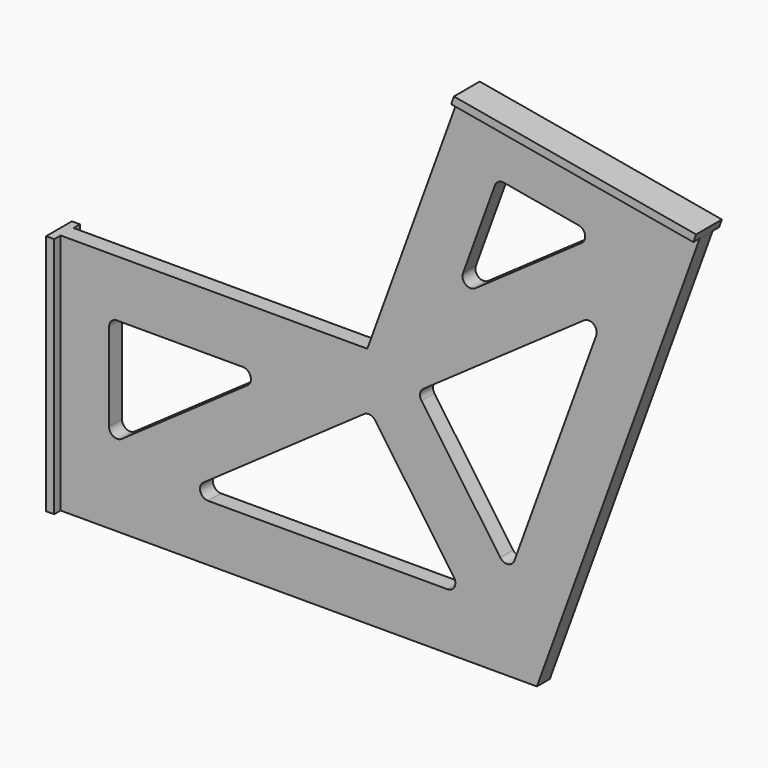
from build123d import *

# Parameters (mm, degrees)
F0_W     = 1
F0_H     = 30
F1_DEPTH = 1
F2_DEPTH = 2


with BuildPart() as f1:
    # F0 (on Front) → F1 (new body, symmetric)
    with BuildSketch(Plane.XZ):
        Polygon((-9, -65.009628), (50, -65.009628), (70.173912, -9.58226), (40.173912, -4.29245), (28.993774, -35.009628), (-9, -35.009628), align=None)
        with BuildLine():
            ThreePointArc((39.724006, -56.436051), (39.791865, -57.471377), (38.904854, -58.009628))
            Line((38.904854, -58.009628), (9.270695, -58.009628))
            ThreePointArc((9.270695, -58.009628), (8.316978, -57.310334), (8.697118, -56.190476))
            Line((8.697118, -56.190476), (28.581938, -42.266975))
            ThreePointArc((28.581938, -42.266975), (29.329162, -42.10132), (29.974666, -42.512551))
            Line((29.974666, -42.512551), (39.724006, -56.436051))
        make_face(mode=Mode.SUBTRACT)
        with BuildLine():
            ThreePointArc((-1.426424, -54.733634), (-2.461749, -54.801493), (-3, -53.914482))
            Line((-3, -53.914482), (-3, -43.009628))
            ThreePointArc((-3, -43.009628), (-2.707107, -42.302521), (-2, -42.009628))
            Line((-2, -42.009628), (13.573746, -42.009628))
            ThreePointArc((13.573746, -42.009628), (14.527463, -42.708922), (14.147322, -43.82878))
            Line((14.147322, -43.82878), (-1.426424, -54.733634))
        make_face(mode=Mode.SUBTRACT)
        with BuildLine():
            Line((57.352395, -24.342459), (47.216915, -52.18946))
            ThreePointArc((47.216915, -52.18946), (46.407749, -52.838885), (45.45807, -52.421016))
            Line((45.45807, -52.421016), (35.70873, -38.497516))
            ThreePointArc((35.70873, -38.497516), (35.543075, -37.750291), (35.954306, -37.104787))
            Line((35.954306, -37.104787), (55.839125, -23.181287))
            ThreePointArc((55.839125, -23.181287), (57.021463, -23.207086), (57.352395, -24.342459))
        make_face(mode=Mode.SUBTRACT)
        with BuildLine():
            ThreePointArc((42.358852, -24.074854), (41.176514, -24.049056), (40.845582, -22.913682))
            Line((40.845582, -22.913682), (44.803145, -12.040368))
            ThreePointArc((44.803145, -12.040368), (45.242838, -11.516363), (45.916486, -11.39758))
            Line((45.916486, -11.39758), (55.159931, -13.027449))
            ThreePointArc((55.159931, -13.027449), (55.962579, -13.795817), (55.559859, -14.831409))
            Line((55.559859, -14.831409), (42.358852, -24.074854))
        make_face(mode=Mode.SUBTRACT)
        Polygon((40.173912, -4.29245), (70.173912, -9.58226), (70.521209, -8.628071), (40.521209, -3.338261), align=None)
        with Locations((-9.5, -50.009628)):
            Rectangle(F0_W, F0_H)
    extrude(amount=F1_DEPTH, both=True)

    # F0 (on Front) → F2 (join, symmetric)
    with BuildSketch(Plane.XZ):
        Polygon((40.173912, -4.29245), (70.173912, -9.58226), (70.521209, -8.628071), (40.521209, -3.338261), align=None)
        with Locations((-9.5, -50.009628)):
            Rectangle(F0_W, F0_H)
    extrude(amount=F2_DEPTH, both=True)


solid = f1.part
